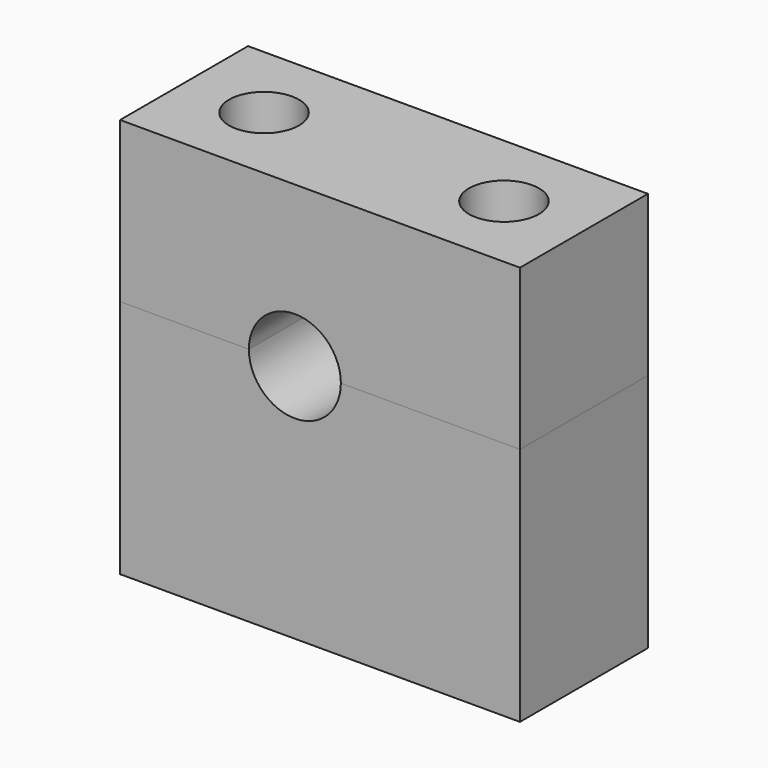
from build123d import *

# Parameters (mm, degrees)
F0_W     = 20
F0_H     = 8
F1_DEPTH = 12
F2_D     = 3.5
F3_DEPTH = 8
F4_D     = 3.5
F6_D     = 4.6
F6_2_D   = 4.6


with BuildPart() as f1:
    # F0 (on Top) → F1 (new body)
    with BuildSketch(Plane.XY):
        Rectangle(F0_W, F0_H)
    extrude(amount=-F1_DEPTH)

    # F2 (through all)
    with Locations(Plane.XY):
        with Locations((6, 0), (-6, 0)):
            Hole(F2_D / 2)

    # F6 (through all)
    with Locations(Plane.XZ.offset(4)):
        with Locations((-1.257777, 0)):
            Hole(F6_D / 2)


with BuildPart() as f3:
    # F0 (on Top) → F3 (new body)
    with BuildSketch(Plane.XY):
        Rectangle(F0_W, F0_H)
    extrude(amount=F3_DEPTH)

    # F4 (through all)
    with Locations(Plane(origin=(0, 0, 0), x_dir=(1, 0, 0), z_dir=(0, 0, -1))):
        with Locations((-6, 0), (6, 0)):
            Hole(F4_D / 2)

    # F6#2 (through all)
    with Locations(Plane.XZ.offset(4)):
        with Locations((-1.257777, 0)):
            Hole(F6_2_D / 2)


solid = Compound([f1.part, f3.part])
